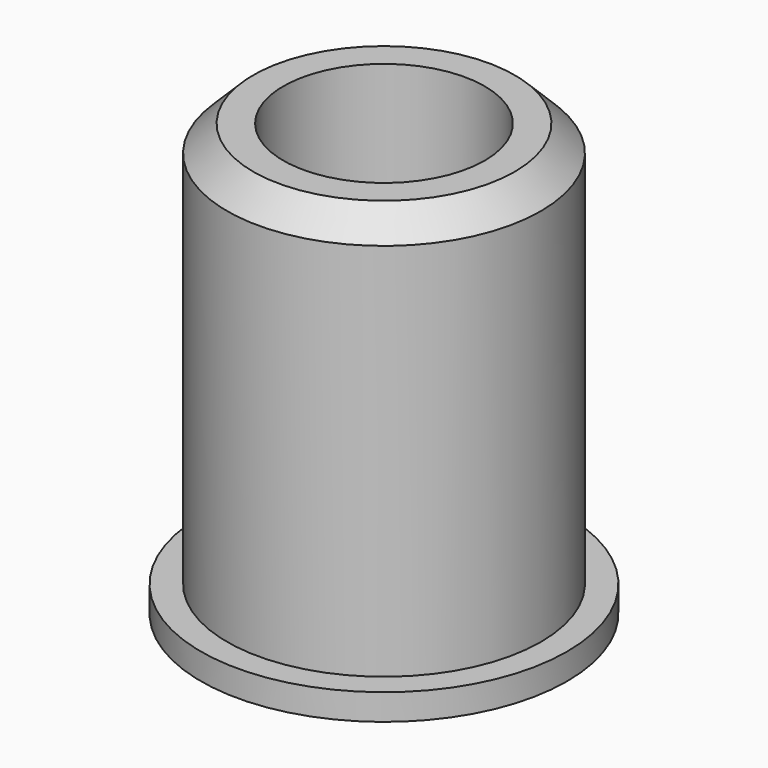
from build123d import *

# Parameters (mm, degrees)
SKETCH_R     = 7
PAD_DEPTH    = 1
SKETCH001_R  = 6
PAD001_DEPTH = 15.5
CHAMFER_SIZE = 1
SKETCH002_R  = 3.85
POCKET_DEPTH = 16.501


with BuildPart() as part:
    # Sketch → Pad (new body)
    with BuildSketch(Plane.XY):
        Circle(SKETCH_R)
    extrude(amount=PAD_DEPTH)

    # Sketch001 (on Face3 of Pad) → Pad001 (join)
    with BuildSketch(Plane.XY.offset(1)):
        Circle(SKETCH001_R)
    extrude(amount=PAD001_DEPTH)

    # Chamfer
    chamfer_edges = [part.edges().sort_by_distance(p)[0] for p in [
        (-6, 0, 16.5),
    ]]
    chamfer(chamfer_edges, length=CHAMFER_SIZE)

    # Sketch002 (on Face4 of Chamfer) → Pocket (cut, through all)
    with BuildSketch(Plane.XY.offset(16.5)):
        Circle(SKETCH002_R)
    extrude(amount=-POCKET_DEPTH, mode=Mode.SUBTRACT)


solid = part.part
